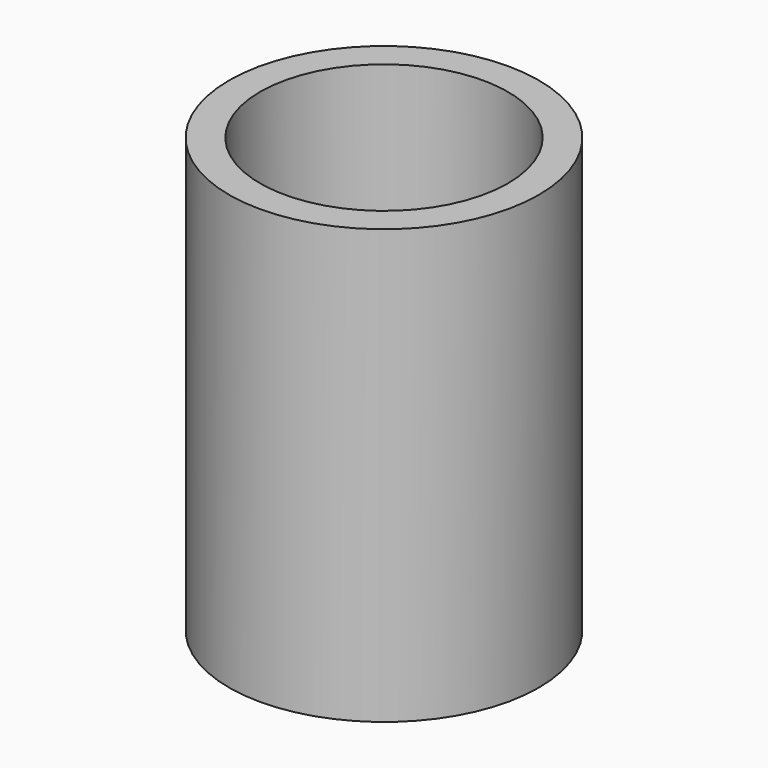
from build123d import *

# Parameters (mm, degrees)
F0_R     = 63.5
F1_DEPTH = 177.8
F2_T     = -12.7


with BuildPart() as f1:
    # F0 (on Top) → F1 (new body)
    with BuildSketch(Plane.XY):
        Circle(F0_R)
    extrude(amount=-F1_DEPTH)

    # F2
    f2_openings = [f1.faces().sort_by_distance(p)[0] for p in [
        (0, 0, 0),
        (0, 0, -177.8),
    ]]
    offset(amount=F2_T, openings=f2_openings)


solid = f1.part
